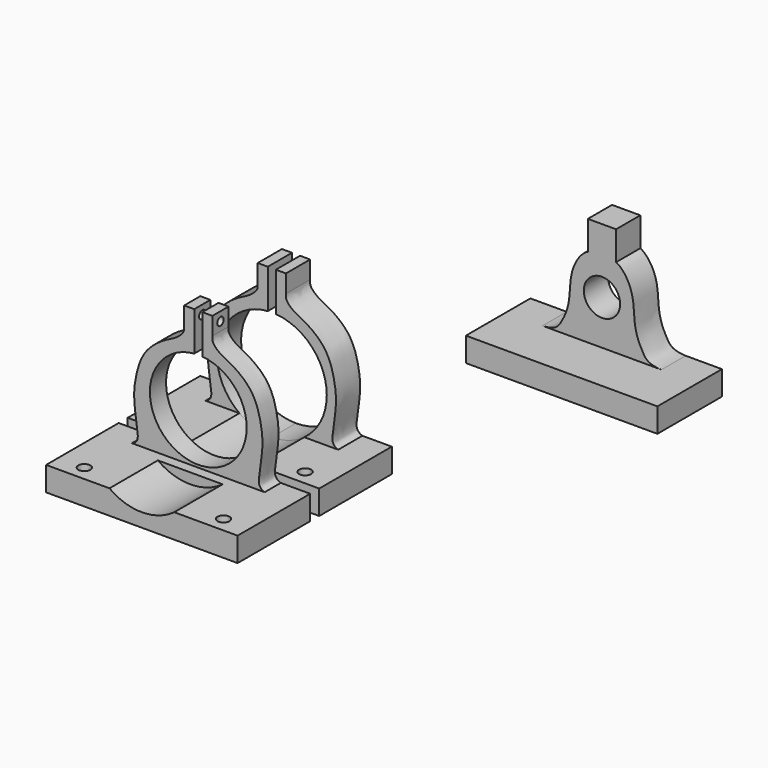
from build123d import *

# Parameters (mm, degrees)
F1_DEPTH  = 15
F2_W      = 95
F2_H      = 12
F3_DEPTH  = 25
F5_DEPTH  = 30
F6_R      = 3
F7_DEPTH  = 25
F10_DEPTH = 10
F11_DEPTH = 45
F12_R     = 3
F13_DEPTH = 25
F14_R     = 2
F15_DEPTH = 25
F16_R     = 27.25
F17_DEPTH = 30


with BuildPart() as f1:
    # F0 (on Front) → F1 (new body)
    with BuildSketch(Plane.XZ):
        with BuildLine():
            Line((-86.7919104606, 148.8248279665), (-93.7919104606, 148.8248279665))
            Line((-93.7919104606, 148.8248279665), (-93.7919104606, 125.8248279665))
            ThreePointArc((-93.7919104606, 125.8248279665), (-84.7919104606, 116.8248279665), (-93.7919104606, 107.8248279665))
            Line((-93.7919104606, 107.8248279665), (-93.7919104606, 82.8248279665))
            Line((-93.7919104606, 82.8248279665), (-46.2919104606, 82.8248279665))
            Line((-46.2919104606, 82.8248279665), (-46.2919104606, 94.8248279665))
            Line((-46.2919104606, 94.8248279665), (-64.2919104606, 94.8248279665))
            add(Edge.make_bspline(
                [(-86.7919104606, 134.4346182567), (-84.6186229965, 133.5189465859), (-80.1312288241, 128.2356920468), (-77.8141041543, 119.2857314457), (-77.824550096, 109.8854181171), (-75.6822417412, 103.3950594754), (-73.7904940331, 99.9910254255), (-71.3124707915, 95.2952731617), (-65.4873071613, 94.8248279665), (-64.2919104606, 94.8248279665)],
                knots=[0, 0, 0, 0, 0.1589153696, 0.3266349591, 0.4941602985, 0.6338202377, 0.7405177517, 0.8628095578, 1, 1, 1, 1], degree=3))
            Line((-86.7919104606, 134.4346182567), (-86.7919104606, 148.8248279665))
        make_face()
        with BuildLine():
            Line((-93.7919104606, 125.8248279665), (-93.7919104606, 148.8248279665))
            Line((-93.7919104606, 148.8248279665), (-100.7919104606, 148.8248279665))
            Line((-100.7919104606, 148.8248279665), (-100.7919104606, 134.4346182567))
            add(Edge.make_bspline(
                [(-100.7919104606, 134.4346182567), (-102.9651979248, 133.5189465859), (-107.4525920971, 128.2356920468), (-109.7697167669, 119.2857314457), (-109.7592708252, 109.8854181171), (-111.90157918, 103.3950594754), (-113.7933268881, 99.9910254255), (-116.2713501297, 95.2952731617), (-122.09651376, 94.8248279665), (-123.2919104606, 94.8248279665)],
                knots=[0, 0, 0, 0, 0.1589153696, 0.3266349591, 0.4941602985, 0.6338202377, 0.7405177517, 0.8628095578, 1, 1, 1, 1], degree=3))
            Line((-123.2919104606, 94.8248279665), (-141.2919104606, 94.8248279665))
            Line((-141.2919104606, 94.8248279665), (-141.2919104606, 82.8248279665))
            Line((-141.2919104606, 82.8248279665), (-93.7919104606, 82.8248279665))
            Line((-93.7919104606, 82.8248279665), (-93.7919104606, 107.8248279665))
            ThreePointArc((-93.7919104606, 107.8248279665), (-102.7919104606, 116.8248279665), (-93.7919104606, 125.8248279665))
        make_face()
    extrude(amount=F1_DEPTH)

    # F2 (on face) → F3 (join)
    with BuildSketch(Plane.XZ.offset(15)):
        with Locations((-93.7919104606, 88.8248279665)):
            Rectangle(F2_W, F2_H)
    extrude(amount=F3_DEPTH)


with BuildPart() as f1b:
    # F0 (on Front) → F1, piece 2 (new body)
    with BuildSketch(Plane.XZ):
        with BuildLine():
            Line((-257.6000979949, -4.2727524898), (-257.6000979949, 2.477310532))
            ThreePointArc((-257.6000979949, 2.477310532), (-284.7741725177, 28.7558565069), (-259.5414917918, 56.9037539082))
            Line((-259.5414917918, 56.9037539082), (-259.5414917918, 76.2926292618))
            Line((-259.5414917918, 76.2926292618), (-264.5414917918, 76.2926292618))
            Line((-264.5414917918, 76.2926292618), (-264.5414917918, 67.4756121834))
            add(Edge.make_bspline(
                [(-290.4570249768, 7.7272475102), (-289.1810761401, 8.2052664847), (-287.0610478005, 9.7665971379), (-288.0067907257, 16.4907230197), (-289.8129929509, 27.7294023947), (-288.7695339108, 37.3587296696), (-285.2655736169, 50.133144334), (-274.6249586166, 58.2213743066), (-268.4604919275, 60.6121886454), (-264.1794193992, 64.7409361805), (-264.5762423932, 66.6883398304), (-264.5414917918, 67.4756121834)],
                knots=[0, 0, 0, 0, 0.0754379169, 0.1766112941, 0.3150596134, 0.4432663677, 0.5896926426, 0.7356900989, 0.8426999539, 0.935912944, 1, 1, 1, 1], degree=3))
            Line((-290.4570249768, 7.7272475102), (-305.0414917918, 7.7272475102))
            Line((-305.0414917918, 7.7272475102), (-305.0414917918, -4.2727524898))
            Line((-305.0414917918, -4.2727524898), (-257.6000979949, -4.2727524898))
        make_face()
        with BuildLine():
            ThreePointArc((-255.5414917918, 56.9037539082), (-237.5782443105, 48.2753269256), (-230.2914917918, 29.7272475102))
            ThreePointArc((-230.2914917918, 29.7272475102), (-238.2935635791, 10.4378784299), (-257.6000979949, 2.477310532))
            Line((-257.6000979949, 2.477310532), (-257.6000979949, -4.2727524898))
            Line((-257.6000979949, -4.2727524898), (-257.4828855888, -4.2727524898))
            Line((-257.4828855888, -4.2727524898), (-210.0414917918, -4.2727524898))
            Line((-210.0414917918, -4.2727524898), (-210.0414917918, 7.7272475102))
            Line((-210.0414917918, 7.7272475102), (-224.6259586068, 7.7272475102))
            add(Edge.make_bspline(
                [(-224.6259586068, 7.7272475102), (-225.9019074436, 8.2052664847), (-228.0219357831, 9.7665971379), (-227.076192858, 16.4907230197), (-225.2699906328, 27.7294023947), (-226.3134496728, 37.3587296696), (-229.8174099667, 50.133144334), (-240.458024967, 58.2213743066), (-246.6224916561, 60.6121886454), (-250.9035641845, 64.7409361805), (-250.5067411904, 66.6883398304), (-250.5414917918, 67.4756121834)],
                knots=[0, 0, 0, 0, 0.0754379169, 0.1766112941, 0.3150596134, 0.4432663677, 0.5896926426, 0.7356900989, 0.8426999539, 0.935912944, 1, 1, 1, 1], degree=3))
            Line((-250.5414917918, 67.4756121834), (-250.5414917918, 76.2926292618))
            Line((-250.5414917918, 76.2926292618), (-255.5414917918, 76.2926292618))
            Line((-255.5414917918, 76.2926292618), (-255.5414917918, 56.9037539082))
        make_face()
    extrude(amount=F1_DEPTH)

    # F4 (on face) → F5 (join)
    with BuildSketch(Plane.XZ.offset(15)):
        with BuildLine():
            Line((-305.0414917918, 7.7272475102), (-305.0414917918, -4.2727524898))
            Line((-305.0414917918, -4.2727524898), (-210.0414917918, -4.2727524898))
            Line((-210.0414917918, -4.2727524898), (-210.0414917918, 7.7272475102))
            Line((-210.0414917918, 7.7272475102), (-224.6259586068, 7.7272475102))
            Line((-224.6259586068, 7.7272475102), (-241.4616130609, 7.7272475102))
            ThreePointArc((-241.4616130609, 7.7272475102), (-257.5414917918, 2.4772475102), (-273.6213705227, 7.7272475102))
            Line((-273.6213705227, 7.7272475102), (-290.4570249768, 7.7272475102))
            Line((-290.4570249768, 7.7272475102), (-305.0414917918, 7.7272475102))
        make_face()
    extrude(amount=F5_DEPTH)

    # F6 (on face) → F7 (cut)
    with BuildSketch(Plane.XY.offset(7.7272475102)):
        with Locations((-292.0414917918, -37.5)):
            Circle(F6_R)
        with Locations((-223.0414917918, -37.5)):
            Circle(F6_R)
    extrude(amount=-F7_DEPTH, mode=Mode.SUBTRACT)


with BuildPart() as f10:
    # F9 (on offset) → F10 (new body)
    with BuildSketch(Plane.XZ.offset(50.6)):
        with BuildLine():
            add(Edge.make_bspline(
                [(-290.455551815, 7.7273002081), (-289.1797665747, 8.2052578931), (-287.0615437343, 9.7671952257), (-288.006424145, 16.4907827685), (-289.8129423825, 27.7295801069), (-288.7693943306, 37.3588750622), (-285.2654603329, 50.1332954807), (-274.624838932, 58.2215372753), (-268.4603720109, 60.612313356), (-264.179344769, 64.741126533), (-264.5761058805, 66.6883149459), (-264.541356201, 67.4755664124)],
                knots=[0, 0, 0, 0, 0.0754282446, 0.1766029589, 0.3150531081, 0.4432615569, 0.589689767, 0.7356891528, 0.8427004222, 0.9359146443, 1, 1, 1, 1], degree=3))
            Line((-290.455551815, 7.7273002081), (-224.624485445, 7.7273002081))
            add(Edge.make_bspline(
                [(-224.624485445, 7.7273002081), (-225.900623414, 8.2053900387), (-228.0223985318, 9.7663759145), (-227.0758422102, 16.4909243477), (-225.2699356677, 27.7295411797), (-226.3133113838, 37.3588860018), (-229.8172964545, 50.1332957727), (-240.4579048632, 58.2215259245), (-246.6223729542, 60.6123432304), (-250.903444844, 64.7410820148), (-250.5066225949, 66.6885016716), (-250.541372776, 67.475764503)],
                knots=[0, 0, 0, 0, 0.0754490989, 0.1766212525, 0.3150678974, 0.4432731011, 0.5896976051, 0.7356932955, 0.8427018564, 0.9359137191, 1, 1, 1, 1], degree=3))
            Line((-250.541372776, 67.475764503), (-250.541372776, 76.2927815814))
            Line((-250.541372776, 76.2927815814), (-255.541372776, 76.2927815814))
            Line((-255.541372776, 76.2927815814), (-255.541372776, 56.9039062278))
            ThreePointArc((-255.541372776, 56.9039062278), (-257.538991525, 8.9872850622), (-259.541356201, 56.9037081371))
            Line((-259.541356201, 56.9037081371), (-259.541356201, 76.2925834908))
            Line((-259.541356201, 76.2925834908), (-264.541356201, 76.2925834908))
            Line((-264.541356201, 76.2925834908), (-264.541356201, 67.4755664124))
        make_face()
    extrude(amount=F10_DEPTH)

    # F9 (on offset) → F11 (join)
    with BuildSketch(Plane.XZ.offset(50.6)):
        Polygon((-224.624485445, 7.7273002081), (-290.455551815, 7.7273002081), (-305.04001863, 7.7273002081), (-305.04001863, -4.2726997919), (-257.5986248331, -4.2726997919), (-257.5401800738, -4.2726997919), (-210.04001863, -4.2726997919), (-210.04001863, 7.7273002081), align=None)
    extrude(amount=F11_DEPTH)

    # F12 (on face) → F13 (cut)
    with BuildSketch(Plane.XY.offset(7.7273002081)):
        with Locations((-292.04001863, -88.1)):
            Circle(F12_R)
        with Locations((-223.04001863, -88.1)):
            Circle(F12_R)
    extrude(amount=-F13_DEPTH, mode=Mode.SUBTRACT)

    # F14 (on face) → F15 (cut)
    with BuildSketch(Plane.YZ.offset(-250.541372776)):
        with Locations((-55.6, 71.8842730422)):
            Circle(F14_R)
    extrude(amount=-F15_DEPTH, mode=Mode.SUBTRACT)

    # F16 (on face) → F17 (cut)
    with BuildSketch(Plane.XZ.offset(95.6)):
        with Locations((-257.5401800738, 29.7416710442)):
            Circle(F16_R)
    extrude(amount=-F17_DEPTH, mode=Mode.SUBTRACT)


solid = Compound([f1.part, f1b.part, f10.part])
